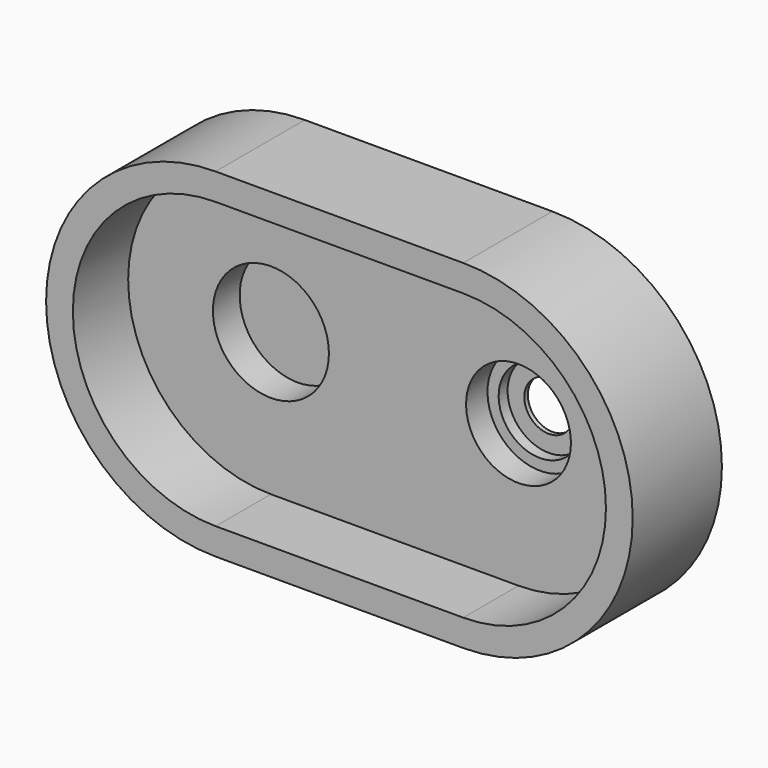
from build123d import *

# Parameters (mm, degrees)
F2_DEPTH = 50
F4_DEPTH = 31
F5_R     = 26
F6_DEPTH = 15
F9_ANGLE = -360


with BuildPart() as f2:
    # F0 (on Front) → F2 (new body)
    with BuildSketch(Plane.XZ):
        with BuildLine():
            Line((111, 76), (0, 76))
            ThreePointArc((0, 76), (-76, 0), (0, -76))
            Line((0, -76), (111, -76))
            ThreePointArc((111, -76), (187, 0), (111, 76))
        make_face()
        with BuildLine():
            Line((111, 76), (0, 76))
            ThreePointArc((0, 76), (-76, 0), (0, -76))
            Line((0, -76), (111, -76))
            ThreePointArc((111, -76), (187, 0), (111, 76))
        make_face()
    extrude(amount=F2_DEPTH)

    # F3 (on offset) → F4 (cut)
    with BuildSketch(Plane.XZ.offset(19)):
        with BuildLine():
            Line((111, 64), (0, 64))
            ThreePointArc((0, 64), (-64, 0), (0, -64))
            Line((0, -64), (111, -64))
            ThreePointArc((111, -64), (175, 0), (111, 64))
        make_face()
    extrude(amount=F4_DEPTH, mode=Mode.SUBTRACT)

    # F5 (on offset) → F6 (cut)
    with BuildSketch(Plane.XZ.offset(19)):
        Circle(F5_R)
        Circle(F5_R)
    extrude(amount=-F6_DEPTH, mode=Mode.SUBTRACT)

    # F8 (on offset) → F9 (revolve, symmetric, cut)
    with BuildSketch(Plane.YZ.offset(111)) as f9_sk:
        Polygon((-19, 0), (0, 0), (0, 11), (-2, 11), (-2, 18.5), (-7, 18.5), (-7, 23.5), (-19, 23.5), align=None)
    revolve(axis=Axis((111, -9.5, 0), (0, -1, 0)), revolution_arc=F9_ANGLE / 2, mode=Mode.SUBTRACT)
    revolve(f9_sk.sketch, axis=Axis((111, -9.5, 0), (0, 1, 0)), revolution_arc=F9_ANGLE / 2, mode=Mode.SUBTRACT)


solid = f2.part
